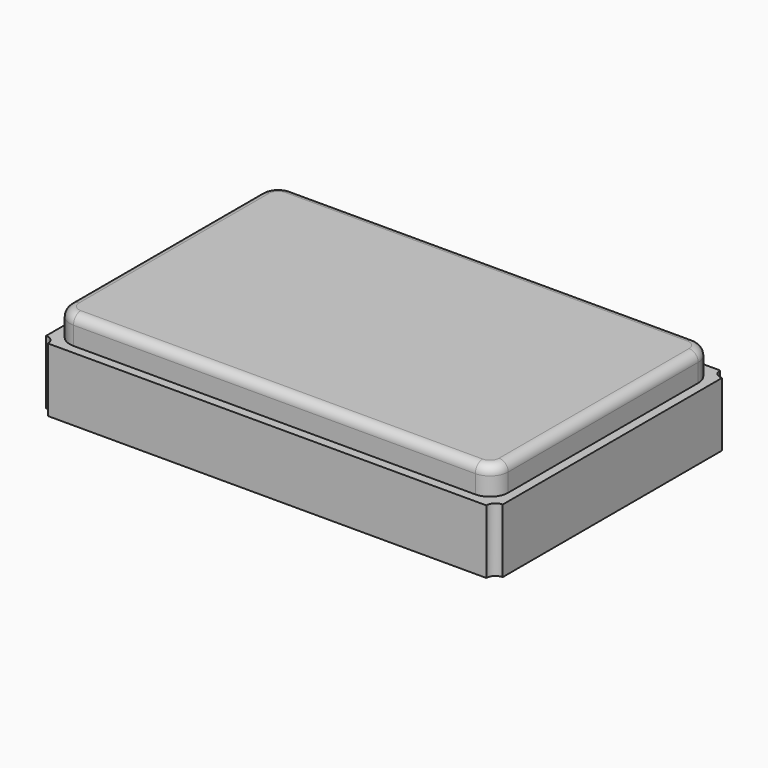
from build123d import *

# Parameters (mm, degrees)
PAD_DEPTH    = 0.7
PAD001_DEPTH = 0.3
FILLET_R     = 0.1


with BuildPart() as part:
    # Sketch001 → Pad (new body)
    with BuildSketch(Plane.XY):
        with BuildLine():
            Line((-2.5, 1.500002), (-2.5, -1.5))
            ThreePointArc((-2.4, -1.6), (-2.429289, -1.529289), (-2.5, -1.5))
            Line((-2.4, -1.6), (2.4, -1.6))
            ThreePointArc((2.5, -1.5), (2.429289, -1.529289), (2.4, -1.6))
            Line((2.5, -1.5), (2.5, 1.5))
            ThreePointArc((2.4, 1.6), (2.429289, 1.529289), (2.5, 1.5))
            Line((2.4, 1.6), (-2.399296, 1.6))
            ThreePointArc((-2.5, 1.500002), (-2.428834, 1.529041), (-2.399296, 1.6))
        make_face()
    extrude(amount=PAD_DEPTH)

    # Sketch (on Face10 of Pad) → Pad001 (join)
    with BuildSketch(Plane.XY.offset(0.7)):
        with BuildLine():
            Line((-2.4, 1.3), (-2.4, -1.3))
            ThreePointArc((-2.4, -1.3), (-2.341421, -1.441421), (-2.2, -1.5))
            Line((-2.2, -1.5), (2.2, -1.5))
            ThreePointArc((2.2, -1.5), (2.341421, -1.441421), (2.4, -1.3))
            Line((2.4, -1.3), (2.4, 1.3))
            ThreePointArc((2.4, 1.3), (2.341421, 1.441421), (2.2, 1.5))
            Line((2.2, 1.5), (-2.2, 1.5))
            ThreePointArc((-2.2, 1.5), (-2.341421, 1.441421), (-2.4, 1.3))
        make_face()
    extrude(amount=PAD001_DEPTH)

    # Fillet
    fillet_edges = [part.edges().sort_by_distance(p)[0] for p in [
        (-2.4, 0, 1),
        (-2.341421, -1.441421, 1),
        (0, -1.5, 1),
        (2.341421, -1.441421, 1),
        (2.4, 0, 1),
        (2.341421, 1.441421, 1),
        (0, 1.5, 1),
        (-2.341421, 1.441421, 1),
    ]]
    fillet(fillet_edges, radius=FILLET_R)


solid = part.part
